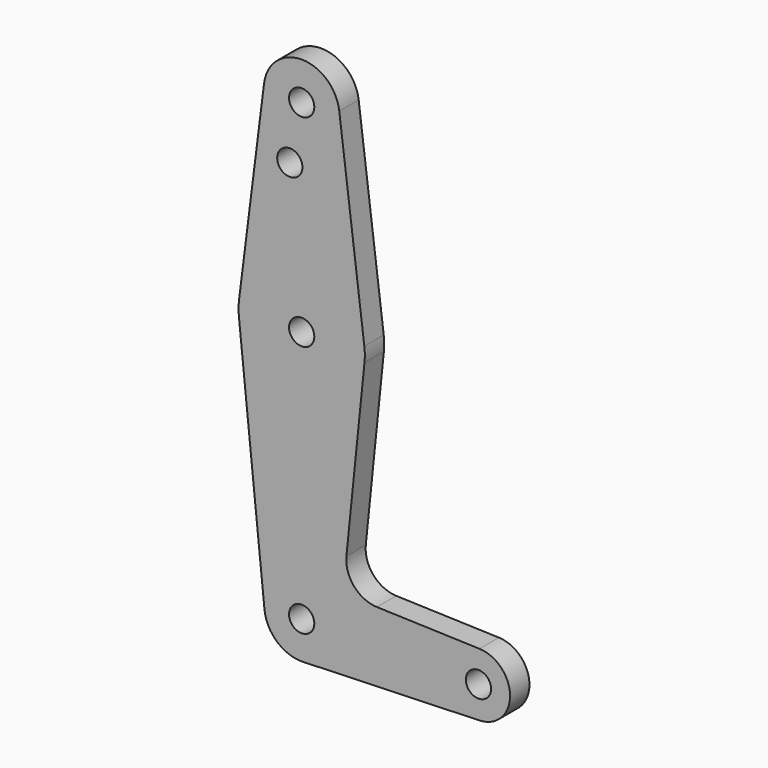
from build123d import *

# Parameters (mm, degrees)
F0_R     = 3.175
F1_DEPTH = 3.048
F2_DEPTH = 3.048


with BuildPart() as f1:
    # F0 (on Front) → F1 (new body)
    with BuildSketch(Plane.XZ):
        with BuildLine():
            ThreePointArc((-53.9002929642, 85.5015618777), (-45.046483242, 74.8046319835), (-34.925, 84.3109368777))
            ThreePointArc((-34.925, 84.3109368777), (-34.9436951058, 84.9074201197), (-34.9997070358, 85.5015618777))
            ThreePointArc((-34.9997070358, 85.5015618777), (-44.45, 93.8359368777), (-53.9002929642, 85.5015618777))
        make_face()
        with Locations((-44.45, 84.3109368777)):
            Circle(F0_R, mode=Mode.SUBTRACT)
        with BuildLine():
            ThreePointArc((-34.9997070358, 85.5015618777), (-34.9436951058, 84.9074201197), (-34.925, 84.3109368777))
            ThreePointArc((-34.925, 84.3109368777), (-45.046483242, 74.8046319835), (-53.9002929642, 85.5015618777))
            Line((-53.9002929642, 85.5015618777), (-60.2004882737, 35.4953118777))
            ThreePointArc((-60.2004882737, 35.4953118777), (-44.45, 49.3859368777), (-28.6995117263, 35.4953118777))
            Line((-28.6995117263, 35.4953118777), (-34.9997070358, 85.5015618777))
        make_face()
        with Locations((-47.42924124, 70.0361368777)):
            Circle(F0_R, mode=Mode.SUBTRACT)
        with BuildLine():
            ThreePointArc((-28.575, 33.5109368777), (-28.6061585096, 34.5050756143), (-28.6995117263, 35.4953118777))
            ThreePointArc((-28.6995117263, 35.4953118777), (-44.45, 49.3859368777), (-60.2004882737, 35.4953118777))
            ThreePointArc((-60.2004882737, 35.4953118777), (-60.3239382754, 33.6945359718), (-60.2421715296, 31.8913865144))
            ThreePointArc((-60.2421715296, 31.8913865144), (-44.45, 17.6359368777), (-28.6578284704, 31.8913865144))
            ThreePointArc((-28.6578284704, 31.8913865144), (-28.5957206403, 32.700103366), (-28.575, 33.5109368777))
        make_face()
        with Locations((-44.45, 33.5109368777)):
            Circle(F0_R, mode=Mode.SUBTRACT)
        with BuildLine():
            ThreePointArc((-28.6578284704, 31.8913865144), (-44.45, 17.6359368777), (-60.2421715296, 31.8913865144))
            Line((-60.2421715296, 31.8913865144), (-53.7977703607, -30.9477143664))
            ThreePointArc((-53.7977703607, -30.9477143664), (-44.9299520734, -20.6045296266), (-35.0532014535, -29.9890631223))
            ThreePointArc((-35.0532014535, -29.9890631223), (-37.6972703247, -36.5236223925), (-44.1415020369, -39.380796292))
            Line((-44.1415020369, -39.380796292), (0.2605890262, -37.9222843854))
            ThreePointArc((0.2605890262, -37.9222843854), (-7.9375, -29.9890631223), (0.2605890262, -22.0558418592))
            Line((0.2605890262, -22.0558418592), (-25.5575821066, -21.2077712142))
            ThreePointArc((-25.5575821066, -21.2077712142), (-31.2846727626, -18.4914245473), (-33.20529564, -12.4507859751))
            Line((-33.20529564, -12.4507859751), (-28.6578284704, 31.8913865144))
        make_face()
        with BuildLine():
            ThreePointArc((-35.0532014535, -29.9890631223), (-44.9299520734, -20.6045296266), (-53.7977703607, -30.9477143664))
            ThreePointArc((-53.7977703607, -30.9477143664), (-50.6311268439, -37.0667388611), (-44.1415020369, -39.380796292))
            ThreePointArc((-44.1415020369, -39.380796292), (-37.6972703247, -36.5236223925), (-35.0532014535, -29.9890631223))
        make_face()
        with Locations((-44.45, -29.9890631223)):
            Circle(F0_R, mode=Mode.SUBTRACT)
        with BuildLine():
            ThreePointArc((0.2605890262, -22.0558418592), (-7.9375, -29.9890631223), (0.2605890262, -37.9222843854))
            ThreePointArc((0.2605890262, -37.9222843854), (5.704048196, -35.5088222137), (7.9375, -29.9890631223))
            ThreePointArc((7.9375, -29.9890631223), (5.704048196, -24.4693040308), (0.2605890262, -22.0558418592))
        make_face()
        with Locations((0, -29.9890631223)):
            Circle(F0_R, mode=Mode.SUBTRACT)
    extrude(amount=F1_DEPTH)

    # F2 (add): a face of the model
    f2_faces = [f1.faces().sort_by_distance(p)[0] for p in [
        (-39.254194897, -3.048, 16.7991701215),
    ]]
    extrude(f2_faces, amount=F2_DEPTH)


solid = f1.part
